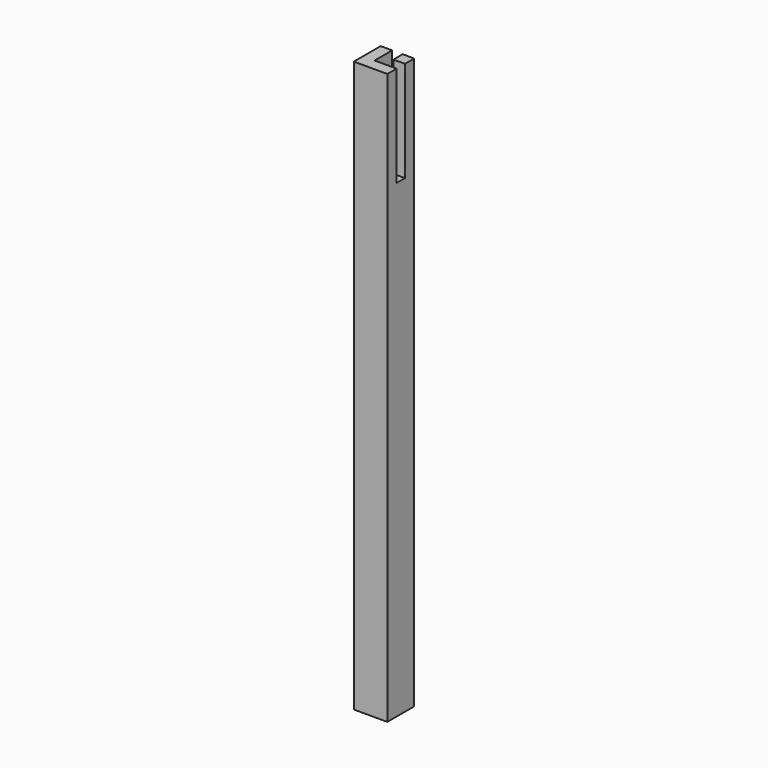
from build123d import *

# Parameters (mm, degrees)
F0_W     = 17.4625
F0_H     = 17.4625
F1_DEPTH = 152.4
F2_W     = 33.3375
F2_H     = 33.3375
F3_DEPTH = 711.2


with BuildPart() as f1:
    # F0 (on Top) → F1 (new body)
    with BuildSketch(Plane.XY):
        Polygon((-28.48252, 31.181035), (-28.48252, -19.618965), (22.31748, -19.618965), (22.31748, -2.156465), (-3.08252, -2.156465), (-11.02002, -2.156465), (-11.02002, 31.181035), align=None)
        with Locations((13.58623, 22.449785)):
            Rectangle(F0_W, F0_H)
    extrude(amount=F1_DEPTH)

    # F2 (on face) → F3 (join)
    with BuildSketch(Plane(origin=(0, 0, 0), x_dir=(1, 0, 0), z_dir=(0, 0, -1))):
        with Locations((5.64873, -14.512285)):
            Rectangle(F2_W, F2_H)
        Polygon((22.31748, 19.618965), (-28.48252, 19.618965), (-28.48252, -31.181035), (-11.02002, -31.181035), (-11.02002, 2.156465), (22.31748, 2.156465), align=None)
    extrude(amount=F3_DEPTH)


solid = f1.part
